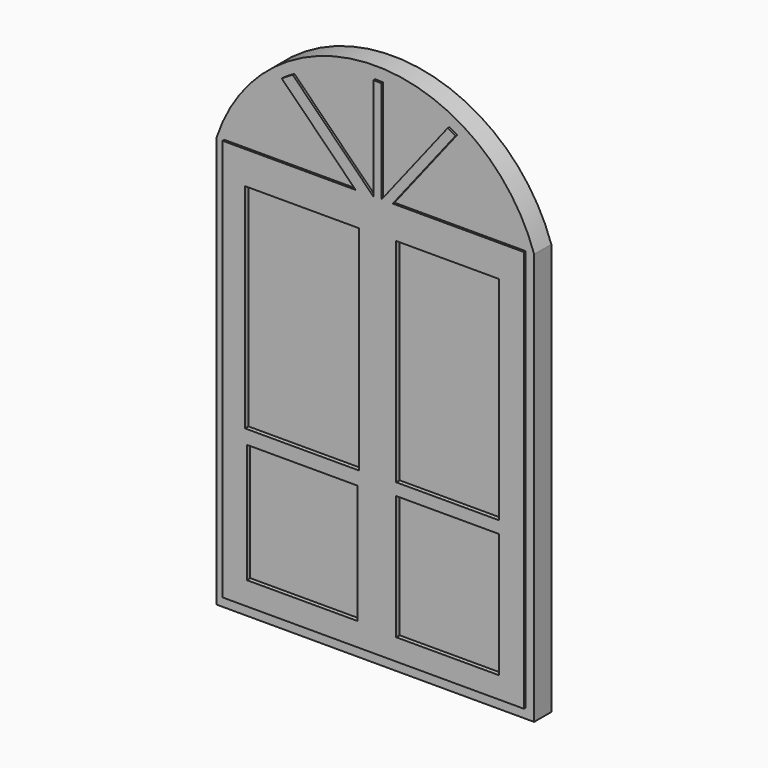
from build123d import *

# Parameters (mm, degrees)
F0_W     = 1879.6
F0_H     = 2438.4
F0_W_2   = 1828.8
F0_H_2   = 2387.6
F1_DEPTH = 127
F2_W     = 675.0328838825
F2_H     = 1263.1295919418
F2_W_2   = 608.5523366928
F2_H_2   = 1258.0157518387
F2_H_3   = 736.3995313644
F2_W_3   = 654.5773297548
F2_H_4   = 705.7162672281
F3_DEPTH = 12.7
F4_W     = 48.5818814486
F4_H     = 2380.9139352679
F4_W_2   = 654.5773297548
F4_H_2   = 705.7162672281
F4_W_3   = 675.0328838825
F4_H_3   = 1263.1295919418
F4_W_4   = 608.5523366928
F4_H_4   = 736.3995313644
F4_H_5   = 1258.0157518387
F5_DEPTH = 12.7


with BuildPart() as f1:
    # F0 (on Front) → F1 (new body)
    with BuildSketch(Plane.XZ):
        with Locations((939.8, 1219.2)):
            Rectangle(F0_W, F0_H)
        with Locations((939.8, 1219.2)):
            Rectangle(F0_W_2, F0_H_2, mode=Mode.SUBTRACT)
        with Locations((939.8, 1219.2)):
            Rectangle(F0_W_2, F0_H_2)
        with BuildLine():
            ThreePointArc((1879.6, 2438.4), (939.8, 3115.8477686492), (0, 2438.4))
            Line((0, 2438.4), (1879.6, 2438.4))
        make_face()
    extrude(amount=F1_DEPTH)

    # F2 (on face) → F3 (cut)
    with BuildSketch(Plane.XZ.offset(127)):
        with Locations((515.6016796827, 1613.5738492012)):
            Rectangle(F2_W, F2_H)
        with Locations((1377.2913813591, 1621.2446093559)):
            Rectangle(F2_W_2, F2_H_2)
        with Locations((1377.2913813591, 552.4426102638)):
            Rectangle(F2_W_2, F2_H_3)
        with Locations((515.601657331, 547.3287627101)):
            Rectangle(F2_W_3, F2_H_4)
    extrude(amount=-F3_DEPTH, mode=Mode.SUBTRACT)

    # F4 (on face) → F5 (join)
    with BuildSketch(Plane.XZ.offset(127)):
        with BuildLine():
            Line((395.2744632943, 2876.9336108596), (832.6625823975, 2438.4))
            Line((832.6625823975, 2438.4), (937.4972153455, 2438.4))
            Line((937.4972153455, 2438.4), (459.7387190608, 2917.4097154998))
            ThreePointArc((459.7387190608, 2917.4097154998), (427.1051939532, 2897.8109483472), (395.2744632943, 2876.9336108596))
        make_face()
        with BuildLine():
            Line((1377.8165414955, 2937.804412016), (986.0790967941, 2438.4))
            Line((986.0790967941, 2438.4), (1052.5596141815, 2438.4))
            Line((1052.5596141815, 2438.4), (1424.2153052564, 2912.2032944876))
            ThreePointArc((1424.2153052564, 2912.2032944876), (1401.1926401654, 2925.3241299178), (1377.8165414955, 2937.804412016))
        make_face()
        with Locations((961.7881560698, 1247.943032366)):
            Rectangle(F4_W, F4_H)
        with BuildLine():
            Line((937.4972153455, 3044.7617533807), (937.4972153455, 2438.4))
            Line((937.4972153455, 2438.4), (986.0790967941, 2438.4))
            Line((986.0790967941, 2438.4), (986.0790967941, 3043.5314722885))
            ThreePointArc((986.0790967941, 3043.5314722885), (961.7959436901, 3044.4541338124), (937.4972153455, 3044.7617533807))
        make_face()
        Polygon((832.6625823975, 2438.4), (45.124206692, 2438.4), (45.124206692, 57.4860647321), (937.4972153455, 57.4860647321), (937.4972153455, 2438.4), align=None)
        with Locations((515.601657331, 547.3287627101)):
            Rectangle(F4_W_2, F4_H_2, mode=Mode.SUBTRACT)
        with Locations((515.6016796827, 1613.5738492012)):
            Rectangle(F4_W_3, F4_H_3, mode=Mode.SUBTRACT)
        Polygon((1052.5596141815, 2438.4), (986.0790967941, 2438.4), (986.0790967941, 57.4860647321), (1829.870223999, 57.4860647321), (1829.870223999, 2438.4), align=None)
        with Locations((1377.2913813591, 552.4426102638)):
            Rectangle(F4_W_4, F4_H_4, mode=Mode.SUBTRACT)
        with Locations((1377.2913813591, 1621.2446093559)):
            Rectangle(F4_W_4, F4_H_5, mode=Mode.SUBTRACT)
    extrude(amount=F5_DEPTH)


solid = f1.part
